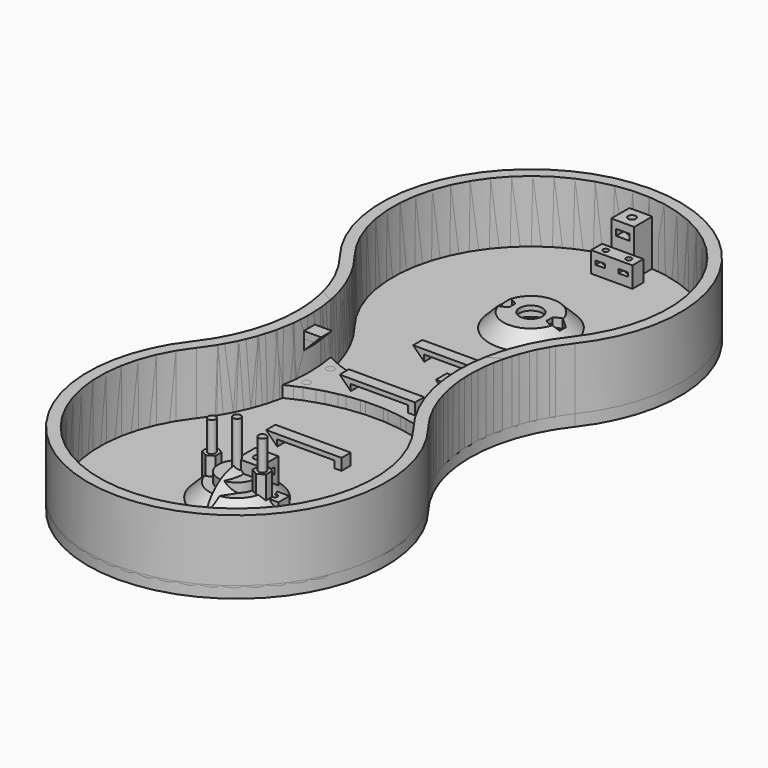
from build123d import *

# Parameters (mm, degrees)
CYLINDER_R               = 2.95
CYLINDER_DEPTH           = 7
CYLINDER001_R            = 1.7
CYLINDER001_DEPTH        = 30
PAD002_DEPTH             = 2.7
PRISM_DEPTH              = 12
CYLINDER1003_R           = 8.2
CYLINDER1003_DEPTH       = 15
PAD013_DEPTH             = 32
THICKNESS001_T           = -5
PAD015_DEPTH             = 5
PAD017_DEPTH             = 6
CLONE118_PLACEMENT_ANGLE = 180
BOX250_W                 = 10
BOX250_H                 = 10
BOX250_DEPTH             = 20
CLONE139_PLACEMENT_ANGLE = 30
BOX251_W                 = 30.6
BOX251_H                 = 7
BOX251_DEPTH             = 4
CYLINDER1015_R           = 5
CYLINDER1015_DEPTH       = 10
CLONE140_PLACEMENT_ANGLE = 30
PAD020_DEPTH             = 2.5
CYLINDER1061_R           = 2.1
CYLINDER1061_DEPTH       = 7
CYLINDER1062_R           = 1.2
CYLINDER1062_DEPTH       = 30
PAD048_DEPTH             = 1.7
CLONE421_ROLL_ANGLE      = 180
CLONE421_PLACEMENT_ANGLE = 90
CLONE420_PLACEMENT_ANGLE = -90
CLONE419_PLACEMENT_ANGLE = -90
CLONE422_ROLL_ANGLE      = 180
CLONE422_PLACEMENT_ANGLE = 90
BOX_W                    = 18
BOX_H                    = 6
BOX_DEPTH                = 9
CLONE424_PLACEMENT_ANGLE = 180
CLONE154_PLACEMENT_ANGLE = 90
CLONE155_PITCH_ANGLE     = 90
CLONE155_PLACEMENT_ANGLE = 90
CLONE153_PITCH_ANGLE     = -90
CLONE149_ROLL_ANGLE      = -90
CLONE152_PITCH_ANGLE     = -90
CLONE148_PLACEMENT_ANGLE = -90
FILLET_R                 = 5
PAD021_DEPTH             = 35
SKETCH_R                 = 75
PAD050_DEPTH             = 35
PAD051_DEPTH             = 3
PAD_DEPTH                = 4.75
SKETCH029_R              = 75
PAD049_DEPTH             = 35


with BuildPart() as m3bolthead:
    # Cylinder → Cylinder (new body)
    with BuildSketch(Plane.XY):
        Circle(CYLINDER_R)
    extrude(amount=CYLINDER_DEPTH)


with BuildPart() as m3bolt:
    # Cylinder001 → Cylinder001 (new body)
    with BuildSketch(Plane.XY.offset(6)):
        Circle(CYLINDER001_R)
    extrude(amount=CYLINDER001_DEPTH)

    # Fusion: union M3BoltHead
    add(m3bolthead.part)


with BuildPart() as m3nuthousing:
    # Sketch003 → Pad002 (new body)
    with BuildSketch(Plane.XY):
        Polygon((0, 0), (1.674316, 2.9), (21.674316, 2.9), (21.674316, -2.9), (1.674316, -2.9), align=None)
    extrude(amount=PAD002_DEPTH)


with BuildPart() as m3nut:
    # Prism → Prism (new body)
    with BuildSketch(Plane.XY):
        Polygon((3.35, 0), (1.675, 2.901185), (-1.675, 2.901185), (-3.35, 0), (-1.675, -2.901185), (1.675, -2.901185), align=None)
    extrude(amount=PRISM_DEPTH)


with BuildPart() as obj1:
    # Sketch016 → Revolution003 (revolve)
    with BuildSketch(Plane.XY):
        Polygon((0, 0), (0, 18), (6, 12), (6, 0), align=None)
    revolve(axis=Axis((0, 0, 0), (1, 0, 0)))


with BuildPart() as obj2:
    # Cylinder1003 → Cylinder1003 (new body)
    with BuildSketch(Plane.XY):
        Circle(CYLINDER1003_R)
    extrude(amount=CYLINDER1003_DEPTH)


with BuildPart() as obj3:
    # Sketch020 → Pad013 (new body)
    with BuildSketch(Plane.XY):
        with BuildLine():
            ThreePointArc((-51.234754, 40), (1e-06, -65), (51.234753, 40.000001))
            ThreePointArc((51.234754, 120), (37.469508, 80), (51.234753, 40.000001))
            ThreePointArc((51.234754, 120), (0, 225), (-51.234754, 120.000001))
            ThreePointArc((-51.234754, 40), (-37.469508, 80), (-51.234754, 120.000001))
        make_face()
    extrude(amount=PAD013_DEPTH)

    # Thickness001
    thickness001_openings = [obj3.faces().sort_by_distance(p)[0] for p in [
        (0, 80, 32),
    ]]
    offset(amount=THICKNESS001_T, openings=thickness001_openings)


with BuildPart() as obj4:
    # Sketch023 → Pad015 (new body)
    with BuildSketch(Plane.XY.offset(5)):
        with BuildLine():
            ThreePointArc((35, 66.332496), (0, 75), (-35, 66.332496))
            ThreePointArc((-35, 66.332496), (-33.840893, 80), (-35, 93.667504))
            ThreePointArc((-35, 93.667504), (0, 85), (35, 93.667504))
            ThreePointArc((35, 93.667504), (33.840893, 80), (35, 66.332496))
        make_face()
    extrude(amount=PAD015_DEPTH)


with BuildPart() as obj5:
    # Sketch025 → Pad017 (new body)
    with BuildSketch(Plane.XY):
        Polygon((0, 0), (0, 10), (10, 0), align=None)
    extrude(amount=PAD017_DEPTH)


with BuildPart() as clone_of_m3nuthousing009:
    # Clone119 base: copy of M3NutHousing
    add(m3nuthousing.part)


with BuildPart() as clone_of_m3nuthousing009_1:
    # Clone119 placement: moved
    add(clone_of_m3nuthousing009.part.moved(Location((1.5, 5, 14))))


with BuildPart() as fusion051:
    # Clone118 base: copy of M3Bolt
    add(m3bolt.part)


with BuildPart() as fusion051_1:
    # Clone118 placement: moved
    add(fusion051.part.moved(Location((5, 5, 40))).rotate(Axis((5, 5, 40), (1, 0, 0)), CLONE118_PLACEMENT_ANGLE))

    # Fusion051: union Clone of M3NutHousing009
    add(clone_of_m3nuthousing009_1.part)


with BuildPart() as obj6:
    # Box250 → Box250 (new body)
    with BuildSketch(Plane.XY):
        with Locations((5, 5)):
            Rectangle(BOX250_W, BOX250_H)
    extrude(amount=BOX250_DEPTH)

    # Cut040: cut Fusion051
    add(fusion051_1.part, mode=Mode.SUBTRACT)


with BuildPart() as clone_of_m3nut005:
    # Clone139 base: copy of M3Nut
    add(m3nut.part)


with BuildPart() as clone_of_m3nut005_1:
    # Clone139 placement: moved
    add(clone_of_m3nut005.part.moved(Location((11, 0, 7))).rotate(Axis((11, 0, 7), (0, 0, 1)), CLONE139_PLACEMENT_ANGLE))


with BuildPart() as cube015:
    # Box251 → Box251 (new body)
    with BuildSketch(Plane(origin=(-15.3, -3.5, 0), x_dir=(1, 0, 0), z_dir=(0, 0, 1))):
        with Locations((15.3, 3.5)):
            Rectangle(BOX251_W, BOX251_H)
    extrude(amount=BOX251_DEPTH)


with BuildPart() as clone_of_m3bolt039:
    # Clone137 base: copy of M3Bolt
    add(m3bolt.part)


with BuildPart() as clone_of_m3bolt039_1:
    # Clone137 placement: moved
    add(clone_of_m3bolt039.part.moved(Location((11, 0, -4))))


with BuildPart() as clone_of_m3bolt040:
    # Clone138 base: copy of M3Bolt
    add(m3bolt.part)


with BuildPart() as clone_of_m3bolt040_1:
    # Clone138 placement: moved
    add(clone_of_m3bolt040.part.moved(Location((-11, 0, -4))))


with BuildPart() as cylinder021:
    # Cylinder1015 → Cylinder1015 (new body)
    with BuildSketch(Plane.XY.offset(4)):
        Circle(CYLINDER1015_R)
    extrude(amount=CYLINDER1015_DEPTH)


with BuildPart() as obj7:
    # Clone136 base: copy of obj2
    add(obj2.part)


with BuildPart() as obj7_1:
    # Clone136 placement: moved
    add(obj7.part.moved(Location((0, 0, -6))))


with BuildPart() as obj8:
    # Clone140 base: copy of M3Nut
    add(m3nut.part)


with BuildPart() as obj8_1:
    # Clone140 placement: moved
    add(obj8.part.moved(Location((-11, 0, 7))).rotate(Axis((-11, 0, 7), (0, 0, 1)), CLONE140_PLACEMENT_ANGLE))

    # Fusion062: union Clone of M3Nut005, Cube015, Clone of M3Bolt039, Clone of M3Bolt040, Cylinder021, obj7
    add(clone_of_m3nut005_1.part)
    add(cube015.part)
    add(clone_of_m3bolt039_1.part)
    add(clone_of_m3bolt040_1.part)
    add(cylinder021.part)
    add(obj7_1.part)


with BuildPart() as obj9:
    # Sketch028 → Pad020 (new body, symmetric)
    with BuildSketch(Plane.XZ):
        Polygon((12.5, 0), (12.5, 3), (-12.5, 3), (-12.5, 0.2), (-17.3, 5), (15.5, 5), (15.5, 0), align=None)
    extrude(amount=PAD020_DEPTH, both=True)


with BuildPart() as m2bolthead:
    # Cylinder1061 → Cylinder1061 (new body)
    with BuildSketch(Plane.XY):
        Circle(CYLINDER1061_R)
    extrude(amount=CYLINDER1061_DEPTH)


with BuildPart() as m2bolt:
    # Cylinder1062 → Cylinder1062 (new body)
    with BuildSketch(Plane.XY.offset(6)):
        Circle(CYLINDER1062_R)
    extrude(amount=CYLINDER1062_DEPTH)

    # Fusion158: union M2BoltHead
    add(m2bolthead.part)


with BuildPart() as m2nuthousing:
    # Sketch079 → Pad048 (new body)
    with BuildSketch(Plane.XY):
        Polygon((0, 0), (1.183568, 2.05), (21.183568, 2.05), (21.183568, -2.05), (1.183568, -2.05), align=None)
    extrude(amount=PAD048_DEPTH)


with BuildPart() as clone421:
    # Clone421 base: copy of M2Bolt
    add(m2bolt.part)


with BuildPart() as clone421_1:
    # Clone421 roll: moved
    add(clone421.part.rotate(Axis((0, 0, 0), (1, 0, 0)), CLONE421_ROLL_ANGLE))


with BuildPart() as clone421_2:
    # Clone421 placement: moved
    add(clone421_1.part.moved(Location((4, 3, 35))).rotate(Axis((4, 3, 35), (0, 0, 1)), CLONE421_PLACEMENT_ANGLE))


with BuildPart() as clone_of_m2nuthousing001:
    # Clone420 base: copy of M2NutHousing
    add(m2nuthousing.part)


with BuildPart() as clone_of_m2nuthousing001_1:
    # Clone420 placement: moved
    add(clone_of_m2nuthousing001.part.moved(Location((14, 5.7, 4))).rotate(Axis((14, 5.7, 4), (0, 0, 1)), CLONE420_PLACEMENT_ANGLE))


with BuildPart() as clone_of_m2nuthousing:
    # Clone419 base: copy of M2NutHousing
    add(m2nuthousing.part)


with BuildPart() as clone_of_m2nuthousing_1:
    # Clone419 placement: moved
    add(clone_of_m2nuthousing.part.moved(Location((4, 5.7, 4))).rotate(Axis((4, 5.7, 4), (0, 0, 1)), CLONE419_PLACEMENT_ANGLE))


with BuildPart() as fusion160:
    # Clone422 base: copy of M2Bolt
    add(m2bolt.part)


with BuildPart() as fusion160_1:
    # Clone422 roll: moved
    add(fusion160.part.rotate(Axis((0, 0, 0), (1, 0, 0)), CLONE422_ROLL_ANGLE))


with BuildPart() as fusion160_2:
    # Clone422 placement: moved
    add(fusion160_1.part.moved(Location((14, 3, 35))).rotate(Axis((14, 3, 35), (0, 0, 1)), CLONE422_PLACEMENT_ANGLE))

    # Fusion160: union Clone421, Clone of M2NutHousing001, Clone of M2NutHousing
    add(clone421_2.part)
    add(clone_of_m2nuthousing001_1.part)
    add(clone_of_m2nuthousing_1.part)


with BuildPart() as obj10:
    # Box → Box (new body)
    with BuildSketch(Plane.XY):
        with Locations((9, 3)):
            Rectangle(BOX_W, BOX_H)
    extrude(amount=BOX_DEPTH)

    # Cut141: cut Fusion160
    add(fusion160_2.part, mode=Mode.SUBTRACT)


with BuildPart() as obj11:
    # Clone424 base: copy of obj10
    add(obj10.part)


with BuildPart() as obj11_1:
    # Clone424 placement: moved
    add(obj11.part.moved(Location((9, -44, 5))).rotate(Axis((9, -44, 5), (0, 0, 1)), CLONE424_PLACEMENT_ANGLE))


with BuildPart() as obj12:
    # Clone423 base: copy of obj10
    add(obj10.part)


with BuildPart() as obj12_1:
    # Clone423 placement: moved
    add(obj12.part.moved(Location((-9, 204, 5))))


with BuildPart() as clone_of_m3bolt043:
    # Clone163 base: copy of M3Bolt
    add(m3bolt.part)


with BuildPart() as clone_of_m3bolt043_1:
    # Clone163 placement: moved
    add(clone_of_m3bolt043.part.moved(Location((-28.5, 86.5, -4.1))))


with BuildPart() as clone_of_m3bolt044:
    # Clone164 base: copy of M3Bolt
    add(m3bolt.part)


with BuildPart() as clone_of_m3bolt044_1:
    # Clone164 placement: moved
    add(clone_of_m3bolt044.part.moved(Location((-28.5, 73.5, -4.1))))


with BuildPart() as clone_of_m3bolt042:
    # Clone162 base: copy of M3Bolt
    add(m3bolt.part)


with BuildPart() as clone_of_m3bolt042_1:
    # Clone162 placement: moved
    add(clone_of_m3bolt042.part.moved(Location((28.5, 86.5, -4.1))))


with BuildPart() as clone_of_m3bolt041:
    # Clone161 base: copy of M3Bolt
    add(m3bolt.part)


with BuildPart() as clone_of_m3bolt041_1:
    # Clone161 placement: moved
    add(clone_of_m3bolt041.part.moved(Location((28.5, 73.5, -4.1))))


with BuildPart() as obj13:
    # Clone160 base: copy of obj8
    add(obj8_1.part)


with BuildPart() as obj13_1:
    # Clone160 placement: moved
    add(obj13.part.moved(Location((0, 160, 0))))


with BuildPart() as fusion065:
    # Clone159 base: copy of obj8
    add(obj8_1.part)

    # Fusion065: union Clone of M3Bolt043, Clone of M3Bolt044, Clone of M3Bolt042, Clone of M3Bolt041, obj13
    add(clone_of_m3bolt043_1.part)
    add(clone_of_m3bolt044_1.part)
    add(clone_of_m3bolt042_1.part)
    add(clone_of_m3bolt041_1.part)
    add(obj13_1.part)


with BuildPart() as obj14:
    # Clone154 base: copy of obj6
    add(obj6.part)


with BuildPart() as obj14_1:
    # Clone154 placement: moved
    add(obj14.part.moved(Location((5.000001, -60, 5))).rotate(Axis((5.000001, -60, 5), (0, 0, 1)), CLONE154_PLACEMENT_ANGLE))


with BuildPart() as obj15:
    # Clone150 base: copy of obj4
    add(obj4.part)


with BuildPart() as obj16:
    # Clone155 base: copy of obj5
    add(obj5.part)


with BuildPart() as obj16_1:
    # Clone155 pitch: moved
    add(obj16.part.rotate(Axis((0, 0, 0), (0, 1, 0)), CLONE155_PITCH_ANGLE))


with BuildPart() as obj16_2:
    # Clone155 placement: moved
    add(obj16_1.part.moved(Location((35, 77, 27))).rotate(Axis((35, 77, 27), (0, 0, 1)), CLONE155_PLACEMENT_ANGLE))


with BuildPart() as obj17:
    # Clone153 base: copy of obj1
    add(obj1.part)


with BuildPart() as obj17_1:
    # Clone153 pitch: moved
    add(obj17.part.rotate(Axis((0, 0, 0), (0, 1, 0)), CLONE153_PITCH_ANGLE))


with BuildPart() as obj17_2:
    # Clone153 placement: moved
    add(obj17_1.part.moved(Location((0, 160, 5))))


with BuildPart() as obj18:
    # Clone149 base: copy of obj5
    add(obj5.part)


with BuildPart() as obj18_1:
    # Clone149 roll: moved
    add(obj18.part.rotate(Axis((0, 0, 0), (1, 0, 0)), CLONE149_ROLL_ANGLE))


with BuildPart() as obj18_2:
    # Clone149 placement: moved
    add(obj18_1.part.moved(Location((-35, 77, 27))))


with BuildPart() as obj19:
    # Clone152 base: copy of obj1
    add(obj1.part)


with BuildPart() as obj19_1:
    # Clone152 pitch: moved
    add(obj19.part.rotate(Axis((0, 0, 0), (0, 1, 0)), CLONE152_PITCH_ANGLE))


with BuildPart() as obj19_2:
    # Clone152 placement: moved
    add(obj19_1.part.moved(Location((0, 0, 5))))


with BuildPart() as obj20:
    # Clone156 base: copy of obj9
    add(obj9.part)


with BuildPart() as obj20_1:
    # Clone156 placement: moved
    add(obj20.part.moved(Location((0, 80, 10))))


with BuildPart() as obj21:
    # Clone157 base: copy of obj9
    add(obj9.part)


with BuildPart() as obj21_1:
    # Clone157 placement: moved
    add(obj21.part.moved(Location((0, 40, 5))))


with BuildPart() as obj22:
    # Clone148 base: copy of obj6
    add(obj6.part)


with BuildPart() as obj22_1:
    # Clone148 placement: moved
    add(obj22.part.moved(Location((-5, 220, 5))).rotate(Axis((-5, 220, 5), (0, 0, 1)), CLONE148_PLACEMENT_ANGLE))


with BuildPart() as obj23:
    # Clone151 base: copy of obj3
    add(obj3.part)


with BuildPart() as obj24:
    # Clone158 base: copy of obj9
    add(obj9.part)


with BuildPart() as obj24_1:
    # Clone158 placement: moved
    add(obj24.part.moved(Location((0, 120, 5))))

    # Fusion064: union obj14, obj15, obj16, obj17, obj18, obj19, obj20, obj21, obj22, obj23
    add(obj14_1.part)
    add(obj15.part)
    add(obj16_2.part)
    add(obj17_2.part)
    add(obj18_2.part)
    add(obj19_2.part)
    add(obj20_1.part)
    add(obj21_1.part)
    add(obj22_1.part)
    add(obj23.part)

    # Cut057: cut Fusion065
    add(fusion065.part, mode=Mode.SUBTRACT)

    # Fusion161: union obj11, obj12
    add(obj11_1.part)
    add(obj12_1.part)

    # Fillet
    fillet_edges = [obj24_1.edges().sort_by_distance(p)[0] for p in [
        (1e-06, -65, 0),
        (-37.469508, 80, 0),
        (37.469508, 80, 0),
        (0, 225, 0),
    ]]
    fillet(fillet_edges, radius=FILLET_R)


with BuildPart() as pad021:
    # Sketch030 → Pad021 (new body)
    with BuildSketch(Plane.XY.offset(4.75)):
        with BuildLine():
            ThreePointArc((45, 60), (0, 75), (-45, 60))
            ThreePointArc((-45, 60), (-42.198901, 80), (-45, 100))
            ThreePointArc((-45, 100), (0, 85), (45, 100))
            ThreePointArc((45, 100), (42.198901, 80), (45, 60))
        make_face()
    extrude(amount=PAD021_DEPTH)


with BuildPart() as pad050:
    # Sketch → Pad050 (new body)
    with BuildSketch(Plane.XY.offset(-0.25)):
        Circle(SKETCH_R)
    extrude(amount=PAD050_DEPTH)


with BuildPart() as obj25:
    # Clone425 base: copy of obj24
    add(obj24_1.part)

    # Cut143: cut Pad050
    add(pad050.part, mode=Mode.SUBTRACT)

    # Cut144: cut Pad021
    add(pad021.part, mode=Mode.SUBTRACT)


with BuildPart() as pad051:
    # Sketch080 → Pad051 (new body)
    with BuildSketch(Plane.XY.offset(24)):
        with BuildLine():
            ThreePointArc((33.68542, 67.009644), (0, 75), (-33.68542, 67.009644))
            ThreePointArc((-33.68542, 67.009644), (-32.469508, 80), (-33.68542, 92.990356))
            ThreePointArc((-33.68542, 92.990356), (0, 85), (33.68542, 92.990356))
            ThreePointArc((33.68542, 92.990356), (32.469508, 80), (33.68542, 67.009644))
        make_face()
    extrude(amount=PAD051_DEPTH)


with BuildPart() as pad:
    # Sketch027 → Pad (new body)
    with BuildSketch(Plane.XY):
        with BuildLine():
            ThreePointArc((51.235163, 119.999893), (38.830338, 93.228506), (39.53885, 63.731306))
            ThreePointArc((39.53885, 63.731306), (0, 75), (-39.53885, 63.731306))
            ThreePointArc((-39.53885, 63.731306), (-38.830331, 93.228473), (-51.235121, 119.99984))
            ThreePointArc((51.235163, 119.999893), (-3.4e-05, 225.000388), (-51.235121, 119.99984))
        make_face()
    extrude(amount=PAD_DEPTH)


with BuildPart() as pad049:
    # Sketch029 → Pad049 (new body)
    with BuildSketch(Plane.XY.offset(-0.25)):
        with Locations((0, 160)):
            Circle(SKETCH029_R)
    extrude(amount=PAD049_DEPTH)


with BuildPart() as obj26:
    # Clone base: copy of obj24
    add(obj24_1.part)

    # Cut: cut Pad049
    add(pad049.part, mode=Mode.SUBTRACT)

    # Cut142: cut Pad
    add(pad.part, mode=Mode.SUBTRACT)

    # Cut145: cut Pad051
    add(pad051.part, mode=Mode.SUBTRACT)


solid = Compound([m3bolt.part, m3nuthousing.part, m3nut.part, obj1.part, obj2.part, obj3.part, obj4.part, obj5.part, obj6.part, obj8_1.part, obj9.part, m2bolt.part, m2nuthousing.part, obj10.part, obj24_1.part, obj25.part, obj26.part])
